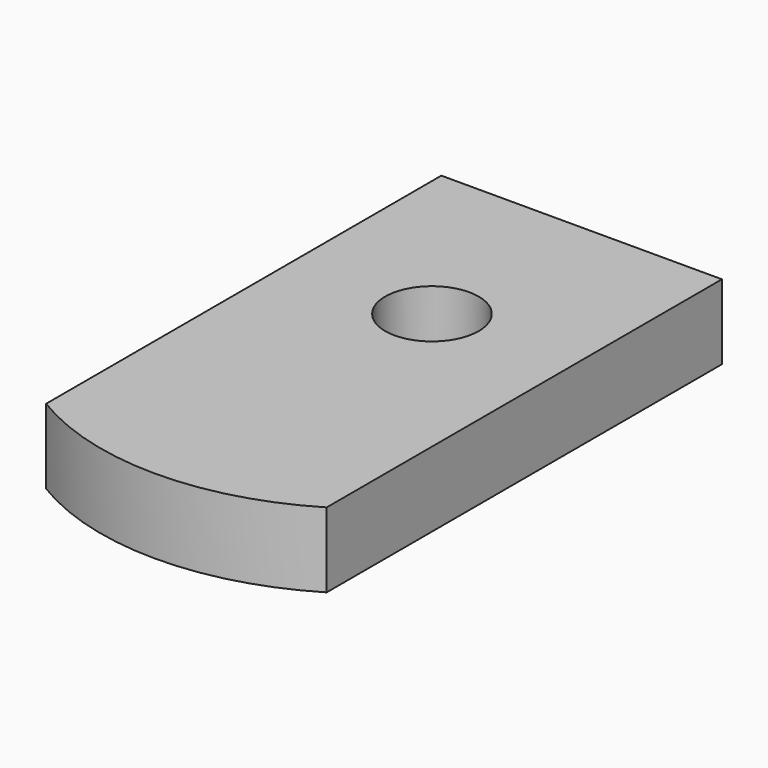
from build123d import *

# Parameters (mm, degrees)
F0_R     = 5
F1_DEPTH = 8


with BuildPart() as f1:
    # F0 (on Top) → F1 (new body)
    with BuildSketch(Plane.XY):
        with BuildLine():
            Line((15, 20), (-15, 20))
            Line((-15, 20), (-15, -32.819347))
            ThreePointArc((-15, -32.819347), (0, -37), (15, -32.819347))
            Line((15, -32.819347), (15, 20))
        make_face()
        Circle(F0_R, mode=Mode.SUBTRACT)
    extrude(amount=F1_DEPTH)


solid = f1.part
